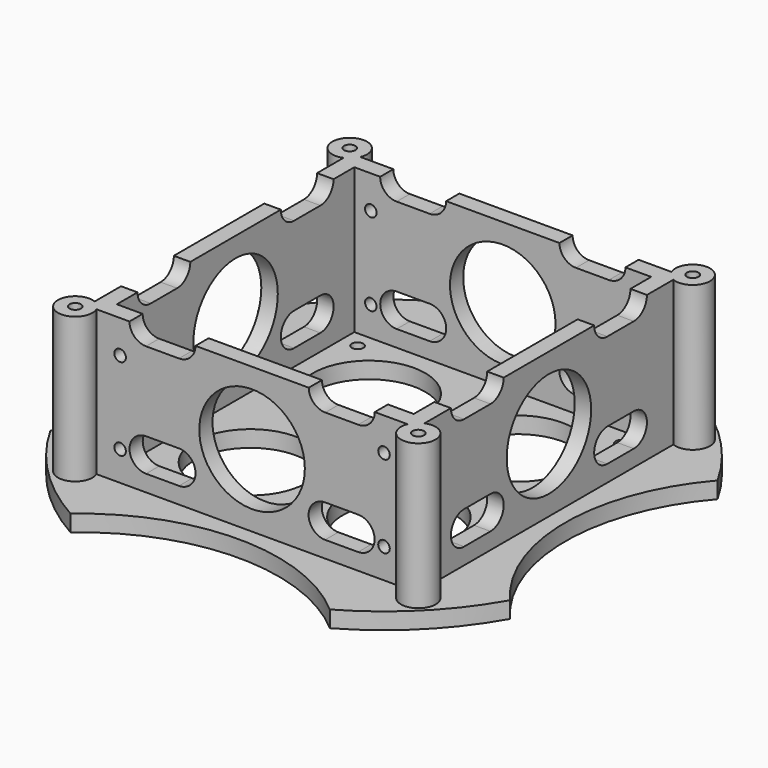
from build123d import *

# Parameters (mm, degrees)
SKETCH_R        = 80
PAD_DEPTH       = 5
PAD001_DEPTH    = 44
SKETCH003_W     = 90
SKETCH003_H     = 90
POCKET_DEPTH    = 44
SKETCH004_R     = 1.75
POCKET001_DEPTH = 49.001
SKETCH005_R     = 17
SKETCH005_R_2   = 60
POCKET002_DEPTH = 5.001
SKETCH006_R     = 16
POCKET003_DEPTH = 119.674913
SKETCH007_R     = 16
POCKET004_DEPTH = 119.674913
SKETCH010_R     = 1.75
POCKET005_DEPTH = 119.674913
SKETCH011_R     = 1.75
POCKET006_DEPTH = 5.001


with BuildPart() as part:
    # Sketch → Pad (new body)
    with BuildSketch(Plane.XY):
        Circle(SKETCH_R)
    extrude(amount=PAD_DEPTH)

    # Sketch002 → Pad001 (new body)
    with BuildSketch(Plane.XY.offset(5)):
        with BuildLine():
            ThreePointArc((-47.145878, 50), (-55.712311, 55.712311), (-50, 47.145878))
            Line((-50, -47.145878), (-50, 47.145878))
            ThreePointArc((-50, -47.145878), (-55.712311, -55.712311), (-47.145878, -50))
            Line((47.145878, -50), (-47.145878, -50))
            ThreePointArc((47.145878, -50), (55.712311, -55.712311), (50, -47.145878))
            Line((50, 47.145878), (50, -47.145878))
            ThreePointArc((50, 47.145878), (55.712311, 55.712311), (47.145878, 50))
            Line((-47.145878, 50), (47.145878, 50))
        make_face()
    extrude(amount=PAD001_DEPTH)

    # Sketch003 → Pocket (cut)
    with BuildSketch(Plane.XY.offset(49)):
        Rectangle(SKETCH003_W, SKETCH003_H)
    extrude(amount=-POCKET_DEPTH, mode=Mode.SUBTRACT)

    # Sketch004 → Pocket001 (cut, through all)
    with BuildSketch(Plane.XY.offset(49)):
        with Locations((-52, -52)):
            Circle(SKETCH004_R)
        with Locations((52, 52)):
            Circle(SKETCH004_R)
        with Locations((52, -52)):
            Circle(SKETCH004_R)
        with Locations((-52, 52)):
            Circle(SKETCH004_R)
    extrude(amount=-POCKET001_DEPTH, mode=Mode.SUBTRACT)

    # Sketch005 → Pocket002 (cut, through all)
    with BuildSketch(Plane.XY.offset(5)):
        with Locations((-22.5, 22.5)):
            Circle(SKETCH005_R)
        with Locations((22.5, 22.5)):
            Circle(SKETCH005_R)
        with Locations((-22.5, -22.5)):
            Circle(SKETCH005_R)
        with Locations((22.5, -22.5)):
            Circle(SKETCH005_R)
        with Locations((0, -115)):
            Circle(SKETCH005_R_2)
        with Locations((-115, 0)):
            Circle(SKETCH005_R_2)
        with Locations((115, 0)):
            Circle(SKETCH005_R_2)
        with Locations((0, 115)):
            Circle(SKETCH005_R_2)
    extrude(amount=-POCKET002_DEPTH, mode=Mode.SUBTRACT)

    # Sketch006 → Pocket003 (cut, through all)
    with BuildSketch(Plane.YZ.offset(50)):
        with Locations((0, 27)):
            Circle(SKETCH006_R)
        with BuildLine():
            ThreePointArc((-32.145847, 20), (-37.145878, 15.000015), (-32.145878, 10))
            Line((-32.145878, 10), (-22.145878, 10))
            ThreePointArc((-22.145878, 10), (-17.145878, 14.999986), (-22.145849, 20))
            Line((-32.145847, 20), (-22.145849, 20))
        make_face()
        with BuildLine():
            ThreePointArc((22.145861, 20), (17.145878, 14.999992), (22.145878, 10))
            Line((22.145878, 10), (32.145878, 10))
            ThreePointArc((32.145878, 10), (37.145878, 15.000009), (32.14586, 20))
            Line((22.145861, 20), (32.14586, 20))
        make_face()
        with BuildLine():
            ThreePointArc((-32.145895, 54), (-37.145878, 49), (-32.145895, 44))
            Line((-32.145895, 44), (-22.145886, 44))
            ThreePointArc((-22.145886, 44), (-17.145878, 48.999999), (-22.145885, 54))
            Line((-32.145895, 54), (-22.145885, 54))
        make_face()
        with BuildLine():
            ThreePointArc((22.145867, 54), (17.145878, 49), (22.145867, 44))
            Line((22.145867, 44), (32.145858, 44))
            ThreePointArc((32.145858, 44), (37.145878, 49), (32.145857, 54))
            Line((22.145867, 54), (32.145857, 54))
        make_face()
    extrude(amount=-POCKET003_DEPTH, mode=Mode.SUBTRACT)

    # Sketch007 → Pocket004 (cut, through all)
    with BuildSketch(Plane.XZ.offset(50)):
        with Locations((0, 27)):
            Circle(SKETCH007_R)
        with BuildLine():
            ThreePointArc((-32.165386, 54), (-37.165371, 48.999992), (-32.165371, 44))
            Line((-32.165371, 44), (-22.165371, 44))
            ThreePointArc((-22.165371, 44), (-17.165371, 49.000008), (-22.165388, 54))
            Line((-32.165386, 54), (-22.165388, 54))
        make_face()
        with BuildLine():
            ThreePointArc((32.189297, 44), (37.189317, 48.99999), (32.189316, 54))
            Line((32.189316, 54), (22.189316, 54))
            ThreePointArc((22.189316, 54), (17.189317, 49.000008), (22.189299, 44))
            Line((32.189297, 44), (22.189299, 44))
        make_face()
        with BuildLine():
            ThreePointArc((-32.145897, 20), (-37.145878, 14.99999), (-32.145878, 10))
            Line((-32.145878, 10), (-22.145878, 10))
            ThreePointArc((-22.145878, 10), (-17.145878, 15.000011), (-22.145899, 20))
            Line((-32.145897, 20), (-22.145899, 20))
        make_face()
        with BuildLine():
            ThreePointArc((22.145901, 20), (17.145878, 15.000011), (22.145878, 10))
            Line((22.145878, 10), (32.145878, 10))
            ThreePointArc((32.145878, 10), (37.145878, 14.999989), (32.1459, 20))
            Line((22.145901, 20), (32.1459, 20))
        make_face()
    extrude(amount=-POCKET004_DEPTH, mode=Mode.SUBTRACT)

    # Sketch010 → Pocket005 (cut, through all)
    with BuildSketch(Plane(origin=(0, 50, 0), x_dir=(-1, 0, 0), z_dir=(0, 1, 0))):
        with Locations((-40, 39)):
            Circle(SKETCH010_R)
        with Locations((-40, 14)):
            Circle(SKETCH010_R)
        with Locations((40, 14)):
            Circle(SKETCH010_R)
        with Locations((40, 39)):
            Circle(SKETCH010_R)
    extrude(amount=-POCKET005_DEPTH, mode=Mode.SUBTRACT)

    # Sketch011 → Pocket006 (cut, through all)
    with BuildSketch(Plane.XY.offset(5)):
        with Locations((39.999999, 40)):
            Circle(SKETCH011_R)
        with Locations((-40.000001, 40)):
            Circle(SKETCH011_R)
        with Locations((-40, -40)):
            Circle(SKETCH011_R)
        with Locations((40, -40)):
            Circle(SKETCH011_R)
    extrude(amount=-POCKET006_DEPTH, mode=Mode.SUBTRACT)


solid = part.part
